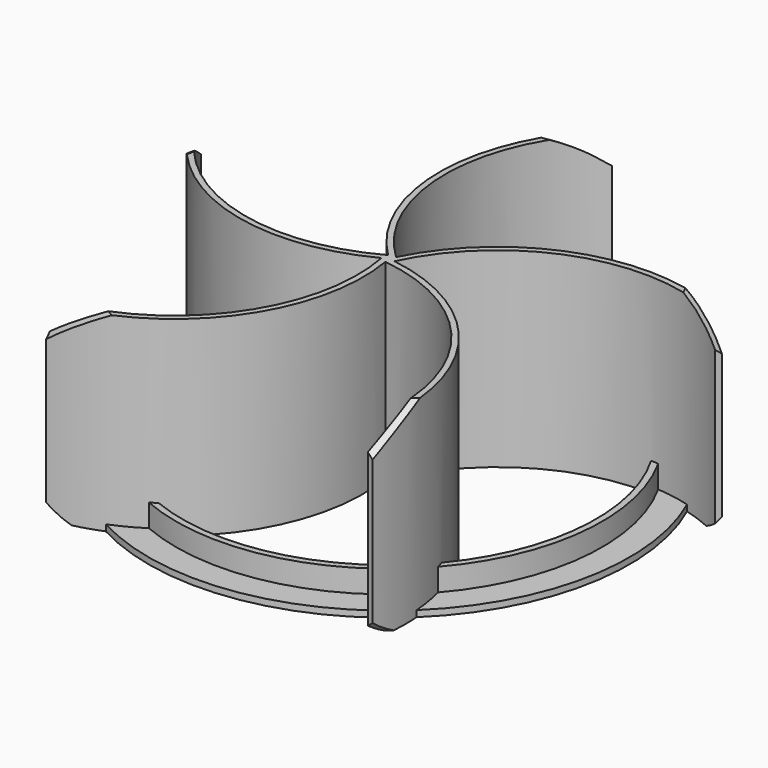
from build123d import *

# Parameters (mm, degrees)
F0_R     = 44.3
F0_R_2   = 43
F1_DEPTH = 6
F0_R_3   = 50
F2_DEPTH = 1.3
F0_R_4   = 4.5
F4_DEPTH = 39.7


with BuildPart() as f1:
    # F0 (on Top) → F1 (new body)
    with BuildSketch(Plane.XY):
        Circle(F0_R)
        Circle(F0_R_2, mode=Mode.SUBTRACT)
    extrude(amount=F1_DEPTH)

    # F0 (on Top) → F2 (join)
    with BuildSketch(Plane.XY):
        Circle(F0_R_3)
        Circle(F0_R, mode=Mode.SUBTRACT)
    extrude(amount=F2_DEPTH)



with BuildPart() as f2:
    # F0 (on Top) → F2, piece 2 (new body)
    with BuildSketch(Plane.XY):
        Circle(F0_R_4)
    extrude(amount=F2_DEPTH)


with BuildPart() as f1_1:
    add(f1.part)

    add(f2.part)  # F4 merges F2
    # F3 (on Top) → F4 (join)
    with BuildSketch(Plane.XY):
        with BuildLine():
            Line((0.813912513, 56.8630076668), (0, 57.7447935939))
            ThreePointArc((0, 57.7447935939), (-12.6366686131, 29.501028063), (-0.9101021846, 0.8674232463))
            ThreePointArc((-0.9101021846, 0.8674232463), (-0.7483916982, 0.9566019765), (-0.5871154535, 1.046563636))
            Line((-0.5871154535, 1.046563636), (0, 0))
            ThreePointArc((0, 0), (0.267331286, 0.5689785091), (0.5437314891, 1.1336071376))
            ThreePointArc((0.5437314891, 1.1336071376), (-11.4412500514, 29.057066575), (0.813912513, 56.8630076668))
        make_face()
        with BuildLine():
            ThreePointArc((-0.5871154535, 1.046563636), (-0.7483916982, 0.9566019765), (-0.9101021846, 0.8674232463))
            ThreePointArc((-0.9101021846, 0.8674232463), (-0.4585208082, 0.4300711904), (0, 0))
            Line((0, 0), (-0.5871154535, 1.046563636))
        make_face()
        with BuildLine():
            ThreePointArc((0, 0), (-0.4585208082, 0.4300711904), (-0.9101021846, 0.8674232463))
            ThreePointArc((-0.9101021846, 0.8674232463), (-31.1704532134, -1.9021480376), (-53.8284211792, 18.3457125195))
            Line((-53.8284211792, 18.3457125195), (-54.9185622296, 17.8441225572))
            ThreePointArc((-54.9185622296, 17.8441225572), (-31.9620903304, -2.9018670057), (-1.1062055724, -0.5975100887))
            ThreePointArc((-1.1062055724, -0.5975100887), (-1.1410482964, -0.4161565338), (-1.1767698186, -0.2349740286))
            Line((-1.1767698186, -0.2349740286), (0, 0))
        make_face()
        with BuildLine():
            ThreePointArc((0.5437314891, 1.1336071376), (0.267331286, 0.5689785091), (0, 0))
            Line((0, 0), (0.813912513, 0.8817859271))
            ThreePointArc((0.813912513, 0.8817859271), (0.67851679, 1.0073690689), (0.5437314891, 1.1336071376))
        make_face()
        with BuildLine():
            Line((-0.1401682913, -1.1917855722), (0, 0))
            ThreePointArc((0, 0), (-0.5507127301, -0.3031798959), (-1.1062055724, -0.5975100887))
            ThreePointArc((-1.1062055724, -0.5975100887), (-7.8231494792, -30.2326587139), (-34.0817063625, -45.5247337819))
            Line((-34.0817063625, -45.5247337819), (-33.9415380712, -46.7165193541))
            ThreePointArc((-33.9415380712, -46.7165193541), (-7.1169895626, -31.2944805034), (0.2264295423, -1.2367047898))
            ThreePointArc((0.2264295423, -1.2367047898), (0.0431850682, -1.213800859), (-0.1401682913, -1.1917855722))
        make_face()
        with BuildLine():
            Line((1.0901410504, -0.5015899623), (0, 0))
            ThreePointArc((0, 0), (0.118161623, -0.6174466707), (0.2264295423, -1.2367047898))
            ThreePointArc((0.2264295423, -1.2367047898), (26.3354809362, -16.7826626179), (32.7647682526, -46.4815453255))
            Line((32.7647682526, -46.4815453255), (33.9415380712, -46.7165193541))
            ThreePointArc((33.9415380712, -46.7165193541), (27.5635488832, -16.4391856056), (1.2461467256, -0.1668155054))
            ThreePointArc((1.2461467256, -0.1668155054), (1.1677381364, -0.3340136527), (1.0901410504, -0.5015899623))
        make_face()
        with BuildLine():
            ThreePointArc((-1.1062055724, -0.5975100887), (-0.5507127301, -0.3031798959), (0, 0))
            Line((0, 0), (-1.1767698186, -0.2349740286))
            ThreePointArc((-1.1767698186, -0.2349740286), (-1.1410482964, -0.4161565338), (-1.1062055724, -0.5975100887))
        make_face()
        with BuildLine():
            Line((0.813912513, 0.8817859271), (0, 0))
            ThreePointArc((0, 0), (0.6237406292, -0.0784231329), (1.2461467256, -0.1668155054))
            ThreePointArc((1.2461467256, -0.1668155054), (24.0993718078, 19.8604027943), (54.3314467761, 16.7975589211))
            Line((54.3314467761, 16.7975589211), (54.9185622296, 17.8441225572))
            ThreePointArc((54.9185622296, 17.8441225572), (24.152199623, 21.1345050517), (0.5437314891, 1.1336071376))
            ThreePointArc((0.5437314891, 1.1336071376), (0.67851679, 1.0073690689), (0.813912513, 0.8817859271))
        make_face()
        with BuildLine():
            ThreePointArc((0.2264295423, -1.2367047898), (0.118161623, -0.6174466707), (0, 0))
            Line((0, 0), (-0.1401682913, -1.1917855722))
            ThreePointArc((-0.1401682913, -1.1917855722), (0.0431850682, -1.213800859), (0.2264295423, -1.2367047898))
        make_face()
        with BuildLine():
            ThreePointArc((1.2461467256, -0.1668155054), (0.6237406292, -0.0784231329), (0, 0))
            Line((0, 0), (1.0901410504, -0.5015899623))
            ThreePointArc((1.0901410504, -0.5015899623), (1.1677381364, -0.3340136527), (1.2461467256, -0.1668155054))
        make_face()
    extrude(amount=F4_DEPTH)

    # F5 (on Right) → F6 (revolve, cut)
    with BuildSketch(Plane.YZ):
        with BuildLine():
            Line((64.435094595, 43.7389037002), (33.4996059537, 43.7389037002))
            ThreePointArc((33.4996059537, 43.7389037002), (52.6054366049, 37.5412075606), (64.435094595, 21.3084199335))
            Line((64.435094595, 21.3084199335), (64.435094595, 43.7389037002))
        make_face()
        with BuildLine():
            ThreePointArc((61.4731870592, 13.4233012795), (57.7598621582, 3.0573466208), (48.3091473579, -2.5929443073))
            Line((48.3091473579, -2.5929443073), (61.4731870592, -2.5929443073))
            Line((61.4731870592, -2.5929443073), (61.4731870592, 13.4233012795))
        make_face()
    revolve(axis=Axis((0, 0, 0), (0, 0, -1)), mode=Mode.SUBTRACT)


solid = f1_1.part
